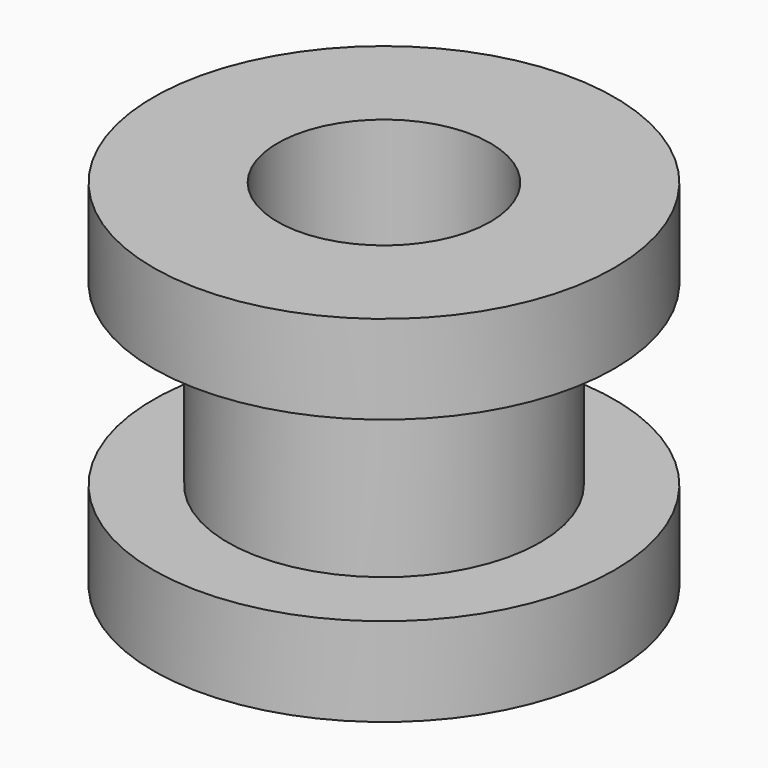
from build123d import *

# Parameters (mm, degrees)
F0_R     = 2.2
F0_R_2   = 1.5
F1_DEPTH = 1.25
F2_R     = 3.25
F2_R_2   = 1.5
F3_DEPTH = 1.25


with BuildPart() as f1:
    # F0 (on Top) → F1 (new body)
    with BuildSketch(Plane.XY):
        Circle(F0_R)
        Circle(F0_R_2, mode=Mode.SUBTRACT)
    extrude(amount=F1_DEPTH)

    # F2 (on face) → F3 (join)
    with BuildSketch(Plane.XY.offset(1.25)):
        Circle(F2_R)
        Circle(F2_R_2, mode=Mode.SUBTRACT)
    extrude(amount=F3_DEPTH)

    # F4: F1 across plane


with BuildPart() as f1_1:
    add(f1.part)
    add(f1.part.mirror(Plane.XY))


solid = f1_1.part
